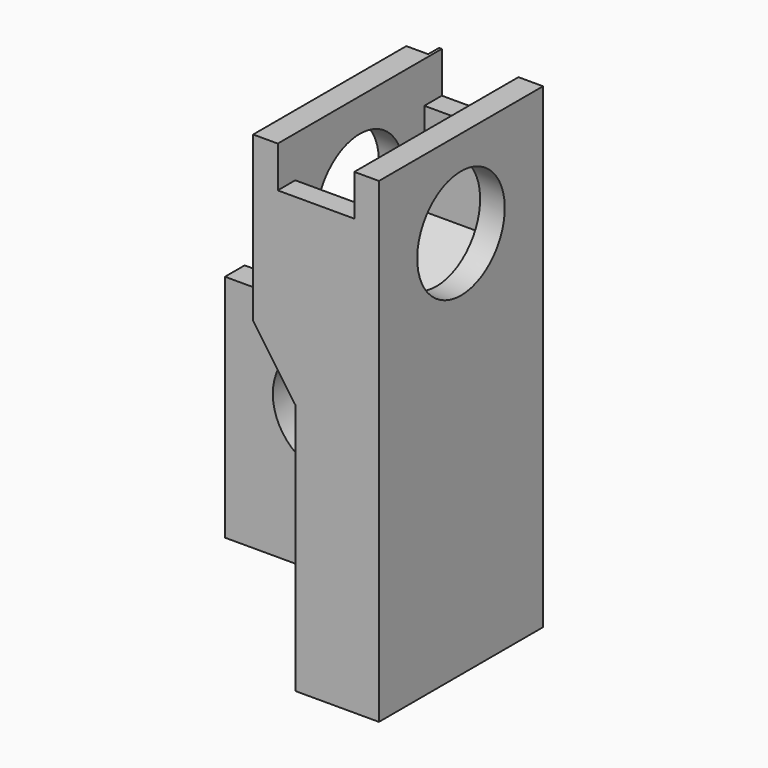
from build123d import *

# Parameters (mm, degrees)
SKETCH046_W       = 7.5
SKETCH046_H       = 8.4
SKETCH046_R       = 2
PAD028_DEPTH      = 4.6
POCKET013_START   = -0.9
POCKET013_DEPTH   = 2.8
PAD029_DEPTH      = 6.15
PAD029_DEPTH_BACK = 1.35
SKETCH049_R       = 2
POCKET014_DEPTH   = 10.551
POCKET015_START   = -0.9
POCKET015_DEPTH   = 2.8
SKETCH051_W       = 0.8
SKETCH051_H       = 0.5
POCKET016_DEPTH   = 8
FILLET008_R       = 1
FILLET009_R       = 2


with BuildPart() as obj1:
    # Sketch046 → Pad028 (new body)
    with BuildSketch(Plane.XZ):
        with Locations((0, -1)):
            Rectangle(SKETCH046_W, SKETCH046_H)
        Circle(SKETCH046_R, mode=Mode.SUBTRACT)
    extrude(amount=PAD028_DEPTH)

    # Sketch047 (on Face7 of Pad028) → Pocket013 (cut)
    with BuildSketch(Plane.XZ.offset(4.6).offset(POCKET013_START)):
        Polygon((2.95, 1.703183), (3.75, 1.703183), (3.75, 3.2), (-3.75, 3.2), (-3.75, 1.703183), (-2.95, 1.703183), (-2.95, -1.703183), (0, -3.406367), (2.95, -1.703183), align=None)
    extrude(amount=-POCKET013_DEPTH, mode=Mode.SUBTRACT)

    # Sketch048 (on Face8 of Pocket013) → Pad029 (join, two sides)
    with BuildSketch(Plane.XZ.offset(4.6)) as pad029_sk:
        Polygon((-3.75, -5.2), (-3.75, 3.2), (-3.75, 4), (-2.2, 6.213629), (-2.2, 12.213629), (-6.8, 12.213629), (-6.8, -5.2), align=None)
    extrude(amount=PAD029_DEPTH)
    extrude(pad029_sk.sketch, amount=-PAD029_DEPTH_BACK)

    # Sketch049 (on Face26 of Pad029) → Pocket014 (cut, through all)
    with BuildSketch(Plane(origin=(-6.8, 0, 0), x_dir=(0, 0, -1), z_dir=(-1, 0, 0))):
        with Locations((-9.003629, 7)):
            Circle(SKETCH049_R)
    extrude(amount=-POCKET014_DEPTH, mode=Mode.SUBTRACT)

    # Sketch050 (on Face26 of Pocket014) → Pocket015 (cut)
    with BuildSketch(Plane(origin=(-6.8, 0, 0), x_dir=(0, 0, -1), z_dir=(-1, 0, 0)).offset(POCKET015_START)):
        Polygon((-10.706813, 9.95), (-10.706813, 10.75), (-12.213629, 10.75), (-12.213629, 3.25), (-10.706813, 3.25), (-10.706813, 4.05), (-7.300446, 4.05), (-5.597263, 7), (-7.300446, 9.95), align=None)
    extrude(amount=-POCKET015_DEPTH, mode=Mode.SUBTRACT)

    # Sketch051 (on Face25 of Pocket015) → Pocket016 (cut)
    with BuildSketch(Plane(origin=(0, 0, 12.213629), x_dir=(-1, 0, 0), z_dir=(0, 0, 1))):
        with Locations((2.6, 3.5)):
            Rectangle(SKETCH051_W, SKETCH051_H)
    extrude(amount=-POCKET016_DEPTH, mode=Mode.SUBTRACT)

    # Fillet008
    fillet008_edges = [obj1.edges().sort_by_distance(p)[0] for p in [
        (-3.75, -4.6, -1),
    ]]
    fillet(fillet008_edges, radius=FILLET008_R)

    # Fillet009
    fillet009_edges = [obj1.edges().sort_by_distance(p)[0] for p in [
        (-3.75, -3.25, -1.748408),
    ]]
    fillet(fillet009_edges, radius=FILLET009_R)


with BuildPart() as obj1_1:
    # Body027 placement: moved
    add(obj1.part.moved(Location((-30, 36.8, 6.9))))


with BuildPart() as part_mirroring:
    # Part__Mirroring: instance of obj1
    add(obj1_1.part.mirror(Plane(origin=(0, 0, 0), x_dir=(0, -1, 0), z_dir=(1, 0, 0))))


solid = part_mirroring.part
